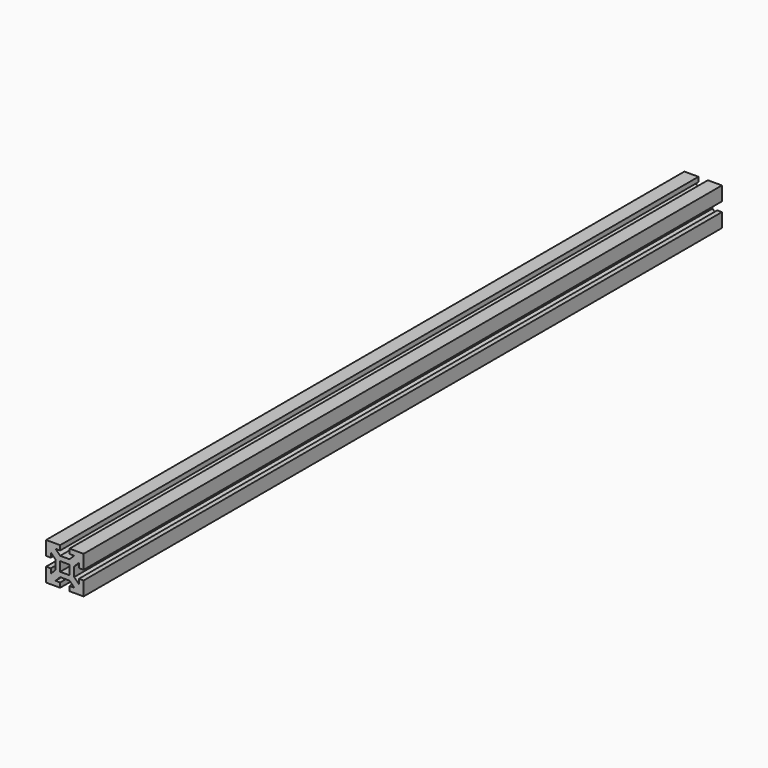
from build123d import *

# Parameters (mm, degrees)
F1_DEPTH = 850


with BuildPart() as f1:
    # F0 (on Front) → F1 (new body)
    with BuildSketch(Plane.XZ):
        Polygon((20, 5), (20, 20), (5, 20), (5, 15), (10, 15), (5, 10), (-5, 10), (-10, 15), (-5, 15), (-5, 20), (-20, 20), (-20, 5), (-15, 5), (-15, 10), (-10, 5), (-10, -5), (-15, -10), (-15, -5), (-20, -5), (-20, -20), (-5, -20), (-5, -15), (-10, -15), (-5, -10), (5, -10), (10, -15), (5, -15), (5, -20), (20, -20), (20, -5), (15, -5), (15, -10), (10, -5), (10, 5), (15, 10), (15, 5), align=None)
        Polygon((-5, 0), (-5, 5), (0, 5), (5, 5), (5, 0), (5, -5), (0, -5), (-5, -5), align=None, mode=Mode.SUBTRACT)
    extrude(amount=F1_DEPTH)


solid = f1.part
